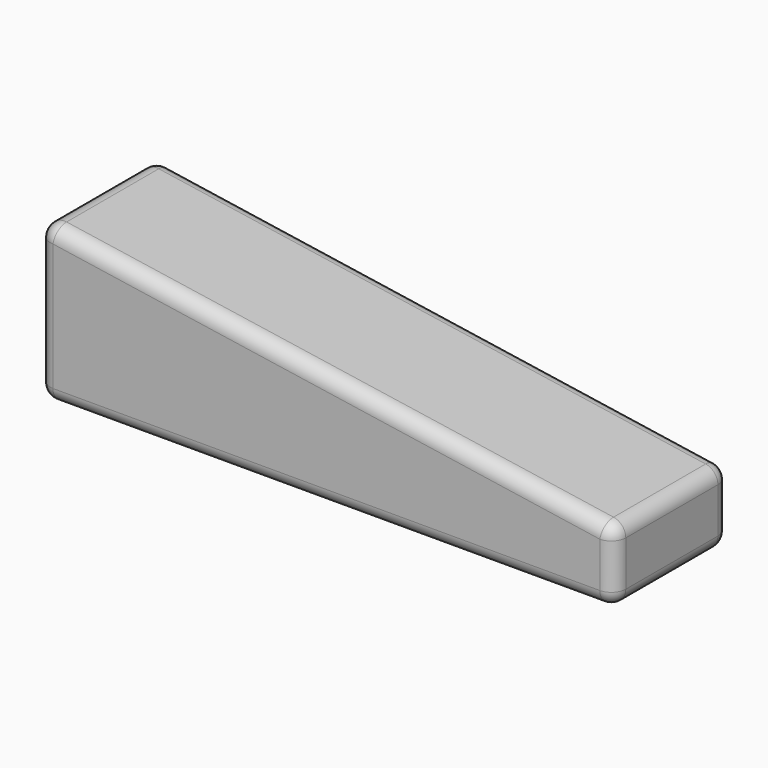
from build123d import *

# Parameters (mm, degrees)
PAD_DEPTH = 20
FILLET_R  = 2


with BuildPart() as part:
    # Sketch → Pad (new body)
    with BuildSketch(Plane.XZ):
        Polygon((0, 0), (0, 22), (80, 10), (80, 0), align=None)
    extrude(amount=PAD_DEPTH)

    # Fillet
    fillet_edges = [part.edges().sort_by_distance(p)[0] for p in [
        (0, -10, 0),
        (0, -10, 22),
        (0, 0, 11),
        (0, -20, 11),
        (80, -10, 10),
        (40, 0, 16),
        (40, -20, 16),
        (80, -10, 0),
        (80, 0, 5),
        (80, -20, 5),
        (40, 0, 0),
        (40, -20, 0),
    ]]
    fillet(fillet_edges, radius=FILLET_R)


solid = part.part
